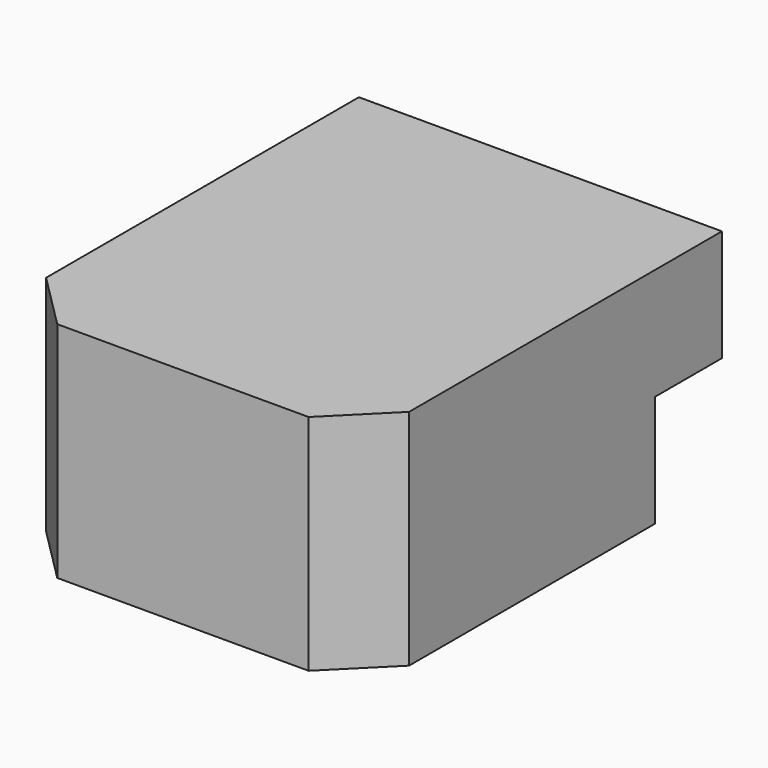
from build123d import *

# Parameters (mm, degrees)
BOX002_W        = 1.3
BOX002_H        = 1.3
BOX002_DEPTH    = 0.8
CHAMFER_SIZE    = 0.2
CHAMFER001_SIZE = 0.2
BOX001_W        = 1.3
BOX001_H        = 0.4
BOX001_DEPTH    = 0.4


with BuildPart() as chamfer001:
    # Box002 → Box002 (new body)
    with BuildSketch(Plane(origin=(-0.08, -2.8, 0.4), x_dir=(1, 0, 0), z_dir=(0, 0, 1))):
        with Locations((0.65, 0.65)):
            Rectangle(BOX002_W, BOX002_H)
    extrude(amount=BOX002_DEPTH)

    # Chamfer
    chamfer_edges = [chamfer001.edges().sort_by_distance(p)[0] for p in [
        (-0.08, -2.8, 0.8),
    ]]
    chamfer(chamfer_edges, length=CHAMFER_SIZE)

    # Chamfer001
    chamfer001_edges = [chamfer001.edges().sort_by_distance(p)[0] for p in [
        (1.22, -2.8, 0.8),
    ]]
    chamfer(chamfer001_edges, length=CHAMFER001_SIZE)


with BuildPart() as fusion:
    # Box001 → Box001 (new body)
    with BuildSketch(Plane(origin=(-0.08, -1.6, 0.8), x_dir=(1, 0, 0), z_dir=(0, 0, 1))):
        with Locations((0.65, 0.2)):
            Rectangle(BOX001_W, BOX001_H)
    extrude(amount=BOX001_DEPTH)

    # Fusion: union Chamfer001
    add(chamfer001.part)


with BuildPart() as fusion_1:
    # Fusion placement: moved
    add(fusion.part.moved(Location((-0.65, 0, 0))))


solid = fusion_1.part
